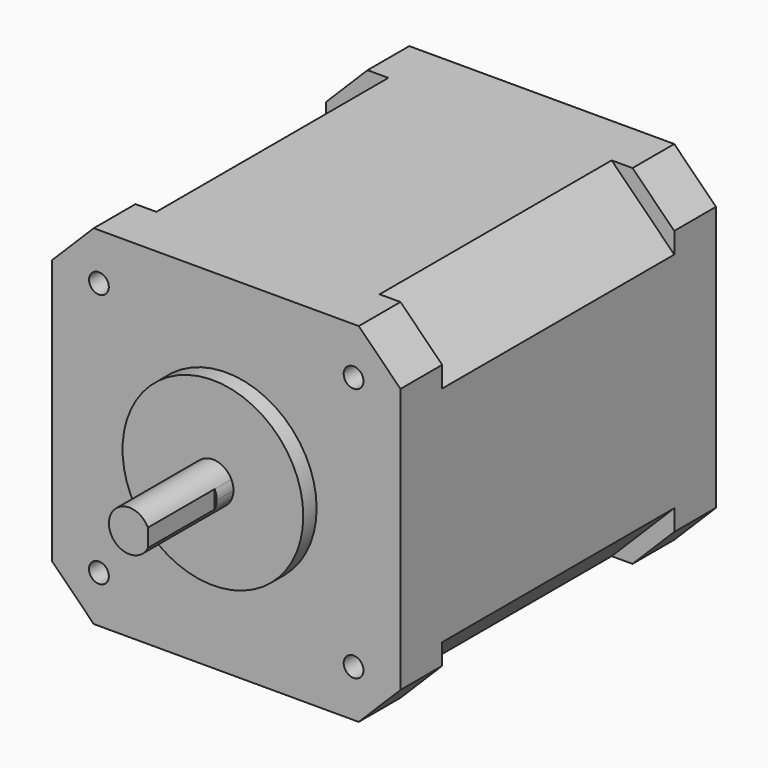
from build123d import *

# Parameters (mm, degrees)
F1_START = 52.58
F1_DEPTH = 10.16
F2_START = 50.04
F2_DEPTH = 2.54
F3_START = 48.01
F0_R     = 11
F3_DEPTH = 2.03
F4_START = 41.66
F0_R_2   = 1.205
F4_DEPTH = 6.35
F5_START = 6.35
F5_DEPTH = 35.31
F6_DEPTH = 6.35


with BuildPart() as f1:
    # F0 (on Front) → F1 (new body)
    with BuildSketch(Plane.XZ.offset(F1_START)):
        with BuildLine():
            Line((2.25, -1.0897247359), (2.25, 1.0897247359))
            ThreePointArc((2.25, 1.0897247359), (-2.5, 0), (2.25, -1.0897247359))
        make_face()
    extrude(amount=F1_DEPTH)

    # F0 (on Front) → F2 (join)
    with BuildSketch(Plane.XZ.offset(F2_START)):
        with BuildLine():
            ThreePointArc((2.25, -1.0897247359), (2.4366985862, -0.5590169944), (2.5, 0))
            ThreePointArc((2.5, 0), (2.4366985862, 0.5590169944), (2.25, 1.0897247359))
            Line((2.25, 1.0897247359), (2.25, -1.0897247359))
        make_face()
        with BuildLine():
            Line((2.25, -1.0897247359), (2.25, 1.0897247359))
            ThreePointArc((2.25, 1.0897247359), (-2.5, 0), (2.25, -1.0897247359))
        make_face()
    extrude(amount=F2_DEPTH)


with BuildPart() as f3:
    # F0 (on Front) → F3 (new body)
    with BuildSketch(Plane.XZ.offset(F3_START)):
        Circle(F0_R)
        with BuildLine():
            ThreePointArc((2.25, -1.0897247359), (-2.5, 0), (2.25, 1.0897247359))
            Line((2.25, 1.0897247359), (2.25, 2.5))
            Line((2.25, 2.5), (2.75, 2.5))
            Line((2.75, 2.5), (2.75, -2.5))
            Line((2.75, -2.5), (2.25, -2.5))
            Line((2.25, -2.5), (2.25, -1.0897247359))
        make_face(mode=Mode.SUBTRACT)
        with BuildLine():
            ThreePointArc((2.25, 1.0897247359), (2.4366985862, 0.5590169944), (2.5, 0))
            ThreePointArc((2.5, 0), (2.4366985862, -0.5590169944), (2.25, -1.0897247359))
            Line((2.25, -1.0897247359), (2.25, -2.5))
            Line((2.25, -2.5), (2.75, -2.5))
            Line((2.75, -2.5), (2.75, 2.5))
            Line((2.75, 2.5), (2.25, 2.5))
            Line((2.25, 2.5), (2.25, 1.0897247359))
        make_face()
    extrude(amount=F3_DEPTH)


with BuildPart() as f4:
    # F0 (on Front) → F4 (new body)
    with BuildSketch(Plane.XZ.offset(F4_START)):
        Polygon((-21.21, -13.59), (-13.59, -21.21), (13.59, -21.21), (21.21, -13.59), (21.21, 13.59), (13.59, 21.21), (-13.59, 21.21), (-21.21, 13.59), align=None)
        with Locations((-15.5, -15.4995612841)):
            Circle(F0_R_2, mode=Mode.SUBTRACT)
        with Locations((15.5, -15.4995612841)):
            Circle(F0_R_2, mode=Mode.SUBTRACT)
        with Locations((-15.5, 15.4995612841)):
            Circle(F0_R_2, mode=Mode.SUBTRACT)
        Circle(F0_R, mode=Mode.SUBTRACT)
        with Locations((15.5, 15.4995612841)):
            Circle(F0_R_2, mode=Mode.SUBTRACT)
        Polygon((13.59, 21.21), (21.21, 13.59), (21.21, 16.13), (16.13, 21.21), align=None)
        Polygon((21.21, -13.59), (13.59, -21.21), (16.13, -21.21), (21.21, -16.13), align=None)
        Polygon((-21.21, -16.13), (-16.13, -21.21), (-13.59, -21.21), (-21.21, -13.59), align=None)
        Polygon((-21.21, 16.13), (-21.21, 13.59), (-13.59, 21.21), (-16.13, 21.21), align=None)
    extrude(amount=F4_DEPTH)

    # F0 (on Front) → F5 (join)
    with BuildSketch(Plane.XZ.offset(F5_START)):
        Polygon((-21.21, -13.59), (-13.59, -21.21), (13.59, -21.21), (21.21, -13.59), (21.21, 13.59), (13.59, 21.21), (-13.59, 21.21), (-21.21, 13.59), align=None)
        with Locations((-15.5, -15.4995612841)):
            Circle(F0_R_2, mode=Mode.SUBTRACT)
        with Locations((15.5, -15.4995612841)):
            Circle(F0_R_2, mode=Mode.SUBTRACT)
        with Locations((-15.5, 15.4995612841)):
            Circle(F0_R_2, mode=Mode.SUBTRACT)
        Circle(F0_R, mode=Mode.SUBTRACT)
        with Locations((15.5, 15.4995612841)):
            Circle(F0_R_2, mode=Mode.SUBTRACT)
    extrude(amount=F5_DEPTH)

    # F0 (on Front) → F6 (join)
    with BuildSketch(Plane.XZ):
        Polygon((-21.21, -13.59), (-13.59, -21.21), (13.59, -21.21), (21.21, -13.59), (21.21, 13.59), (13.59, 21.21), (-13.59, 21.21), (-21.21, 13.59), align=None)
        with Locations((-15.5, -15.4995612841)):
            Circle(F0_R_2, mode=Mode.SUBTRACT)
        with Locations((15.5, -15.4995612841)):
            Circle(F0_R_2, mode=Mode.SUBTRACT)
        with Locations((-15.5, 15.4995612841)):
            Circle(F0_R_2, mode=Mode.SUBTRACT)
        Circle(F0_R, mode=Mode.SUBTRACT)
        with Locations((15.5, 15.4995612841)):
            Circle(F0_R_2, mode=Mode.SUBTRACT)
        Circle(F0_R)
        with BuildLine():
            ThreePointArc((2.25, -1.0897247359), (-2.5, 0), (2.25, 1.0897247359))
            Line((2.25, 1.0897247359), (2.25, 2.5))
            Line((2.25, 2.5), (2.75, 2.5))
            Line((2.75, 2.5), (2.75, -2.5))
            Line((2.75, -2.5), (2.25, -2.5))
            Line((2.25, -2.5), (2.25, -1.0897247359))
        make_face(mode=Mode.SUBTRACT)
        with BuildLine():
            Line((2.25, -1.0897247359), (2.25, 1.0897247359))
            ThreePointArc((2.25, 1.0897247359), (-2.5, 0), (2.25, -1.0897247359))
        make_face()
        Polygon((-21.21, -16.13), (-16.13, -21.21), (-13.59, -21.21), (-21.21, -13.59), align=None)
        Polygon((-21.21, 16.13), (-21.21, 13.59), (-13.59, 21.21), (-16.13, 21.21), align=None)
        Polygon((13.59, 21.21), (21.21, 13.59), (21.21, 16.13), (16.13, 21.21), align=None)
        Polygon((21.21, -13.59), (13.59, -21.21), (16.13, -21.21), (21.21, -16.13), align=None)
        with Locations((15.5, -15.4995612841)):
            Circle(F0_R_2)
        with Locations((15.5, 15.4995612841)):
            Circle(F0_R_2)
        with Locations((-15.5, 15.4995612841)):
            Circle(F0_R_2)
        with Locations((-15.5, -15.4995612841)):
            Circle(F0_R_2)
        with BuildLine():
            ThreePointArc((2.25, 1.0897247359), (2.4366985862, 0.5590169944), (2.5, 0))
            ThreePointArc((2.5, 0), (2.4366985862, -0.5590169944), (2.25, -1.0897247359))
            Line((2.25, -1.0897247359), (2.25, -2.5))
            Line((2.25, -2.5), (2.75, -2.5))
            Line((2.75, -2.5), (2.75, 2.5))
            Line((2.75, 2.5), (2.25, 2.5))
            Line((2.25, 2.5), (2.25, 1.0897247359))
        make_face()
        with BuildLine():
            ThreePointArc((2.25, -1.0897247359), (2.4366985862, -0.5590169944), (2.5, 0))
            ThreePointArc((2.5, 0), (2.4366985862, 0.5590169944), (2.25, 1.0897247359))
            Line((2.25, 1.0897247359), (2.25, -1.0897247359))
        make_face()
    extrude(amount=F6_DEPTH)


solid = Compound([f1.part, f3.part, f4.part])
